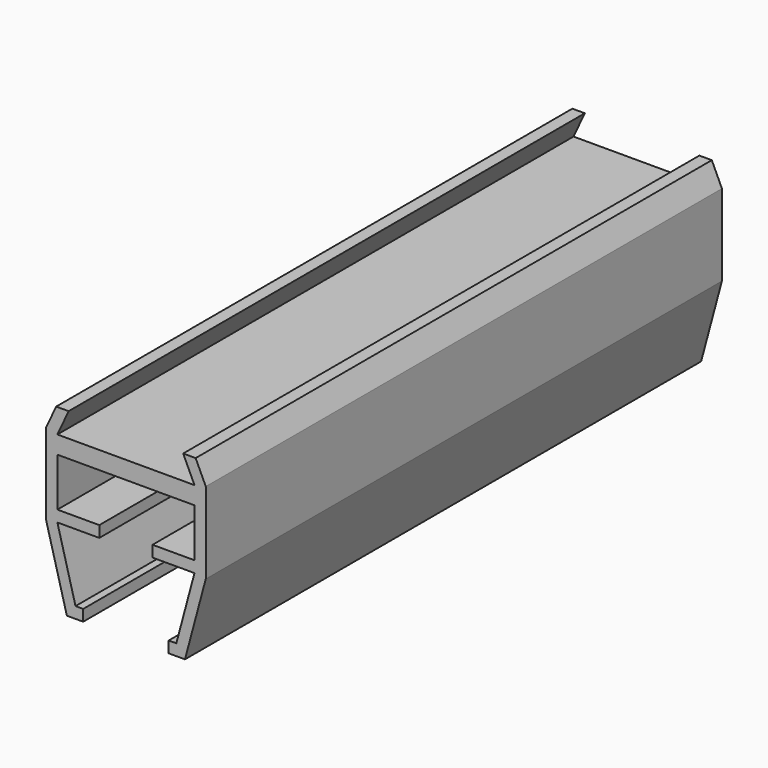
from build123d import *

# Parameters (mm, degrees)
F1_DEPTH = 101.6


with BuildPart() as f1:
    # F0 (on Front) → F1 (new body)
    with BuildSketch(Plane.XZ):
        Polygon((12.573, 25.032173), (10.980174, 28.448), (9.018368, 28.448), (10.795, 24.638), (0, 24.638), (0, 21.844), (10.795, 21.844), (10.795, 14.224), (4.191, 14.224), (4.191, 12.446), (10.795, 12.446), (7.936518, 1.778), (6.731, 1.778), (6.731, 0), (9.300825, 0), (12.573, 12.211922), align=None)
        Polygon((0, 21.844), (0, 24.638), (-10.795, 24.638), (-9.018368, 28.448), (-10.980174, 28.448), (-12.573, 25.032173), (-12.573, 12.211922), (-9.300825, 0), (-6.731, 0), (-6.731, 1.778), (-7.936518, 1.778), (-10.795, 12.446), (-4.191, 12.446), (-4.191, 14.224), (-10.795, 14.224), (-10.795, 21.844), align=None)
    extrude(amount=F1_DEPTH)


solid = f1.part
